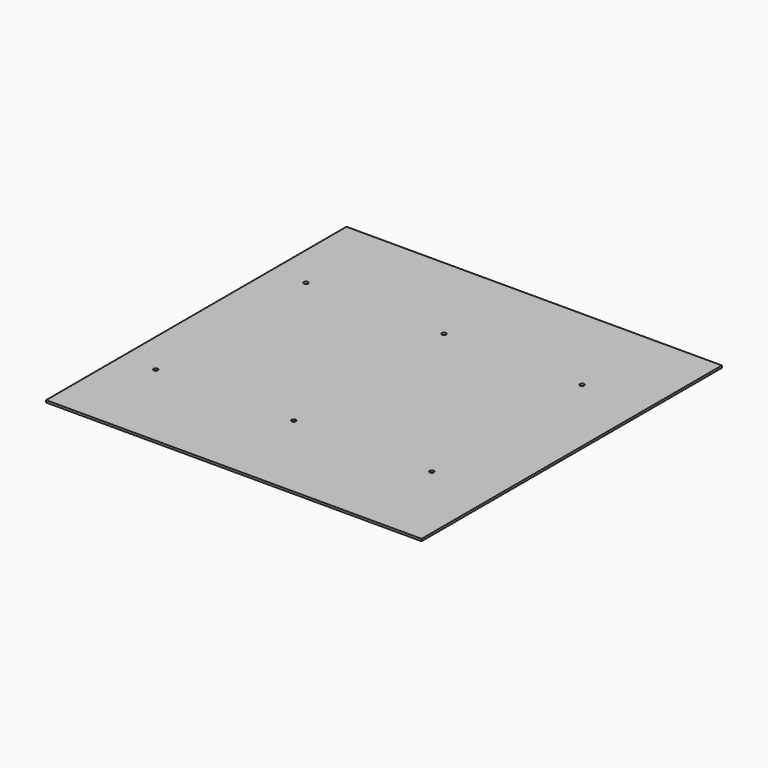
from build123d import *

# Parameters (mm, degrees)
F0_W     = 276.225
F0_H     = 276.225
F2_DEPTH = 1.5875
F1_R     = 1.5875
F3_DEPTH = 1.5875


with BuildPart() as f2:
    # F0 (on Top) → F2 (new body)
    with BuildSketch(Plane.XY):
        Rectangle(F0_W, F0_H)
        Rectangle(F0_W, F0_H)
    extrude(amount=-F2_DEPTH)

    # F1 (on face) → F3 (cut, through all)
    with BuildSketch(Plane.XY):
        with Locations((90.4875, 69.05625)):
            Circle(F1_R)
        with Locations((-11.1125, 69.05625)):
            Circle(F1_R)
        with Locations((-112.7125, 69.05625)):
            Circle(F1_R)
        with Locations((-112.7125, -69.05625)):
            Circle(F1_R)
        with Locations((-11.1125, -69.05625)):
            Circle(F1_R)
        with Locations((90.4875, -69.05625)):
            Circle(F1_R)
    extrude(amount=-F3_DEPTH, mode=Mode.SUBTRACT)


solid = f2.part
